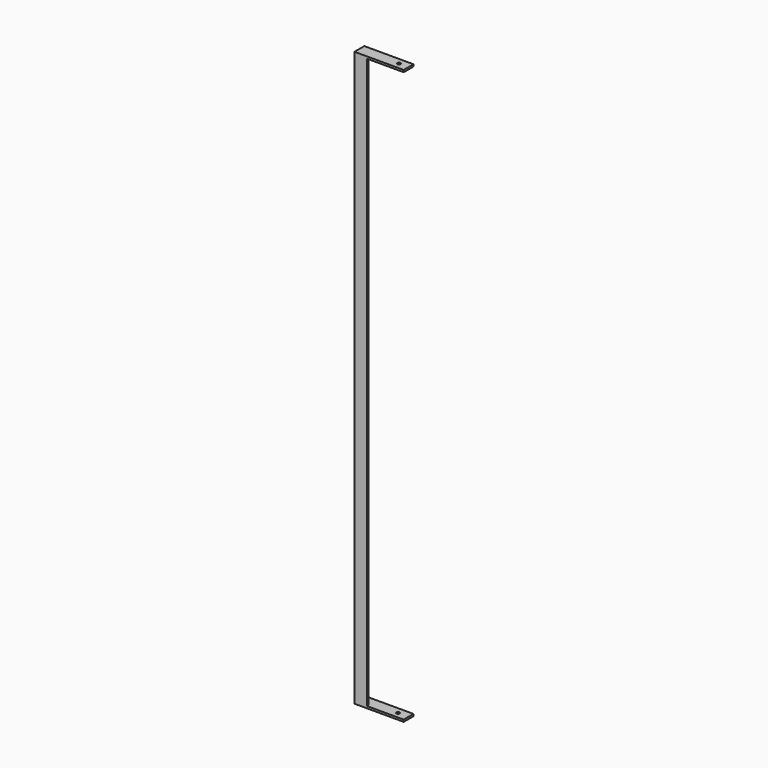
from build123d import *

# Parameters (mm, degrees)
F0_W     = 120
F0_H     = 30
F1_DEPTH = 5
F3_DEPTH = 1390
F4_W     = 120
F4_H     = 30
F5_DEPTH = 5
F6_R     = 4
F7_DEPTH = 25
F8_R     = 4
F9_DEPTH = 25


with BuildPart() as f1:
    # F0 (on Top) → F1 (new body)
    with BuildSketch(Plane.XY):
        Rectangle(F0_W, F0_H)
    extrude(amount=F1_DEPTH)

    # F2 (on face) → F3 (join)
    with BuildSketch(Plane.XY.offset(5)):
        Polygon((-55, 15), (-60, 15), (-60, -15), (-30, -15), (-30, -10), (-55, -10), align=None)
    extrude(amount=F3_DEPTH)

    # F4 (on face) → F5 (join)
    with BuildSketch(Plane.XY.offset(1395)):
        Rectangle(F4_W, F4_H)
        Rectangle(F4_W, F4_H)
    extrude(amount=F5_DEPTH)

    # F6 (on face) → F7 (cut)
    with BuildSketch(Plane.XY.offset(1400)):
        with Locations((36.882059, 0)):
            Circle(F6_R)
    extrude(amount=-F7_DEPTH, mode=Mode.SUBTRACT)

    # F8 (on face) → F9 (cut)
    with BuildSketch(Plane.XY.offset(5)):
        with Locations((34.570879, 0)):
            Circle(F8_R)
    extrude(amount=-F9_DEPTH, mode=Mode.SUBTRACT)


solid = f1.part
